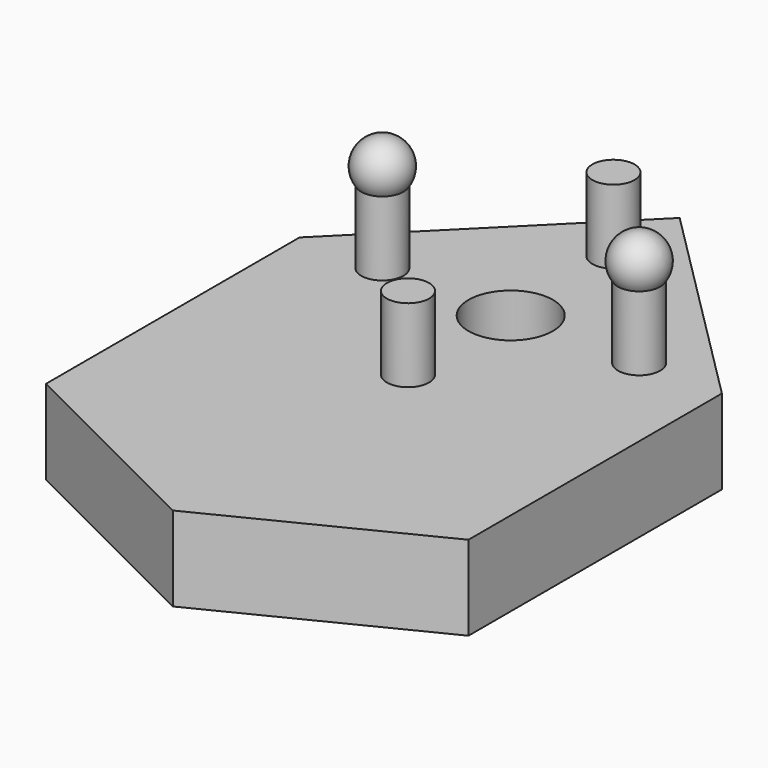
from build123d import *

# Parameters (mm, degrees)
PAD_DEPTH    = 4
SKETCH001_R  = 2
POCKET_DEPTH = 5
SKETCH002_R  = 1
PAD001_DEPTH = 3.5


with BuildPart() as part:
    # Sketch → Pad (new body)
    with BuildSketch(Plane.XY):
        Polygon((-10, 0), (0, 10), (10, 0), (10, -15), (0, -20), (-10, -15), align=None)
    extrude(amount=PAD_DEPTH)

    # Sketch001 (on Face8 of Pad) → Pocket (cut)
    with BuildSketch(Plane.XY.offset(4)):
        Circle(SKETCH001_R)
    extrude(amount=-POCKET_DEPTH, mode=Mode.SUBTRACT)

    # Sketch002 (on Face5 of Pocket) → Pad001 (join)
    with BuildSketch(Plane.XY.offset(4)):
        with Locations((0, 6.08)):
            Circle(SKETCH002_R)
        with Locations((-6.08, 0)):
            Circle(SKETCH002_R)
        with Locations((6.08, 0)):
            Circle(SKETCH002_R)
        with Locations((0, -6.08)):
            Circle(SKETCH002_R)
    extrude(amount=PAD001_DEPTH)

    # Sketch006 → Revolution (revolve)
    with BuildSketch(Plane.XZ):
        with BuildLine():
            ThreePointArc((-6.08, 9.5), (-7.198034, 8.809017), (-7.08, 7.5))
            Line((-7.08, 7.5), (-6.08, 7.5))
            Line((-6.08, 7.5), (-6.08, 9.5))
        make_face()
    revolve(axis=Axis((-6.08, 0, 7.5), (0, 0, 1)))

    # Sketch008 → Revolution001 (revolve)
    with BuildSketch(Plane.XZ):
        with BuildLine():
            ThreePointArc((7.08, 7.5), (7.198034, 8.809017), (6.08, 9.5))
            Line((6.08, 7.5), (6.08, 9.5))
            Line((7.08, 7.5), (6.08, 7.5))
        make_face()
    revolve(axis=Axis((6.08, 0, 7.5), (0, 0, 1)))


solid = part.part
